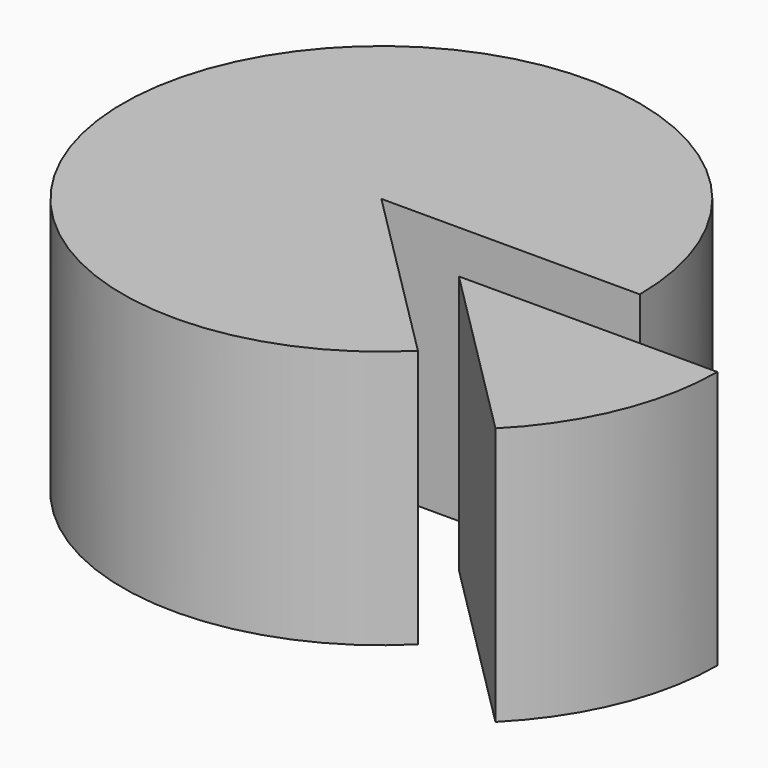
from build123d import *

# Parameters (mm, degrees)
CYLINDER001_W               = 20
CYLINDER001_H               = 20
CYLINDER001_ANGLE           = 45
CYLINDER001_PLACEMENT_ANGLE = 45
CYLINDER_W                  = 20
CYLINDER_H                  = 20
CYLINDER_ANGLE              = 315


with BuildPart() as cilindre001:
    # Cylinder001 → Cylinder001 (revolve)
    with BuildSketch(Plane.XZ):
        with Locations((10, 10)):
            Rectangle(CYLINDER001_W, CYLINDER001_H)
    revolve(axis=Axis((0, 0, 0), (0, 0, 1)), revolution_arc=CYLINDER001_ANGLE)


with BuildPart() as cilindre001_1:
    # Cylinder001 placement: moved
    add(cilindre001.part.moved(Location((10, -5, 0))).rotate(Axis((10, -5, 0), (0, 0, -1)), CYLINDER001_PLACEMENT_ANGLE))


with BuildPart() as fusion:
    # Cylinder → Cylinder (revolve)
    with BuildSketch(Plane.XZ):
        with Locations((10, 10)):
            Rectangle(CYLINDER_W, CYLINDER_H)
    revolve(axis=Axis((0, 0, 0), (0, 0, 1)), revolution_arc=CYLINDER_ANGLE)

    # Fusion: union Cilindre001
    add(cilindre001_1.part)


solid = fusion.part
